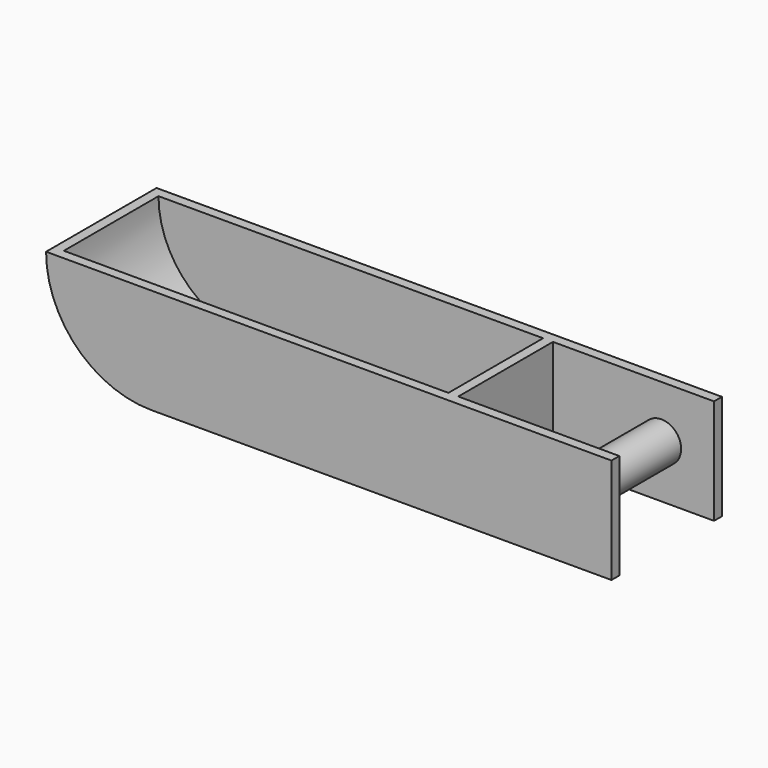
from build123d import *

# Parameters (mm, degrees)
F0_W     = 254
F0_H     = 203.2
F1_DEPTH = 19.05
F2_R     = 38.1
F2_W     = 558.8
F2_H     = 19.05
F3_DEPTH = 228.6
F4_W     = 254
F4_H     = 203.2
F4_W_2   = 57.15
F5_DEPTH = 19.05


with BuildPart() as f1:
    # F0 (on Front) → F1 (new body)
    with BuildSketch(Plane.XZ):
        with BuildLine():
            Line((0, -203.2), (0, 0))
            Line((0, 0), (-431.8, 0))
            ThreePointArc((-431.8, 0), (-491.3159020629, -143.6840979371), (-635, -203.2))
            Line((-635, -203.2), (0, -203.2))
        make_face()
        with BuildLine():
            Line((-635, -203.2), (-635, 0))
            Line((-635, 0), (-838.2, 0))
            ThreePointArc((-838.2, 0), (-778.6840979371, -143.6840979371), (-635, -203.2))
        make_face()
        with BuildLine():
            ThreePointArc((-635, -203.2), (-491.3159020629, -143.6840979371), (-431.8, 0))
            Line((-431.8, 0), (-635, 0))
            Line((-635, 0), (-635, -203.2))
        make_face()
        with Locations((127, -101.6)):
            Rectangle(F0_W, F0_H)
    extrude(amount=F1_DEPTH)

    # F2 (on face) → F3 (join)
    with BuildSketch(Plane.XZ.offset(19.05)):
        with Locations((152.4, -101.6)):
            Circle(F2_R)
        Polygon((-57.15, -203.2), (-57.15, 0), (-76.2, 0), (-76.2, -184.15), (-76.2, -203.2), align=None)
        with Locations((-355.6, -193.675)):
            Rectangle(F2_W, F2_H)
        with BuildLine():
            Line((-635, -203.2), (-635, -184.15))
            ThreePointArc((-635, -184.15), (-765.2137137555, -130.2137137555), (-819.15, 0))
            Line((-819.15, 0), (-838.2, 0))
            ThreePointArc((-838.2, 0), (-778.6840979371, -143.6840979371), (-635, -203.2))
        make_face()
    extrude(amount=F3_DEPTH)

    # F4 (on face) → F5 (join)
    with BuildSketch(Plane.XZ.offset(247.65)):
        with Locations((127, -101.6)):
            Rectangle(F4_W, F4_H)
        with Locations((-28.575, -101.6)):
            Rectangle(F4_W_2, F4_H)
        with BuildLine():
            ThreePointArc((-838.2, 0), (-778.6840979371, -143.6840979371), (-635, -203.2))
            Line((-635, -203.2), (-635, -184.15))
            ThreePointArc((-635, -184.15), (-765.2137137555, -130.2137137555), (-819.15, 0))
            Line((-819.15, 0), (-838.2, 0))
        make_face()
        with BuildLine():
            Line((-635, -184.15), (-635, 0))
            Line((-635, 0), (-819.15, 0))
            ThreePointArc((-819.15, 0), (-765.2137137555, -130.2137137555), (-635, -184.15))
        make_face()
        with BuildLine():
            Line((-76.2, -184.15), (-76.2, 0))
            Line((-76.2, 0), (-431.8, 0))
            ThreePointArc((-431.8, 0), (-463.6153953484, -109.1675651849), (-549.0987922087, -184.15))
            Line((-549.0987922087, -184.15), (-76.2, -184.15))
        make_face()
        with BuildLine():
            Line((-57.15, -203.2), (-57.15, 0))
            Line((-57.15, 0), (-76.2, 0))
            Line((-76.2, 0), (-76.2, -184.15))
            Line((-76.2, -184.15), (-549.0987922087, -184.15))
            ThreePointArc((-549.0987922087, -184.15), (-591.0059094877, -198.380341768), (-635, -203.2))
            Line((-635, -203.2), (-57.15, -203.2))
        make_face()
        with BuildLine():
            Line((-635, -184.15), (-635, -203.2))
            ThreePointArc((-635, -203.2), (-591.0059094877, -198.380341768), (-549.0987922087, -184.15))
            Line((-549.0987922087, -184.15), (-635, -184.15))
        make_face()
        with BuildLine():
            ThreePointArc((-549.0987922087, -184.15), (-463.6153953484, -109.1675651849), (-431.8, 0))
            Line((-431.8, 0), (-635, 0))
            Line((-635, 0), (-635, -184.15))
            Line((-635, -184.15), (-549.0987922087, -184.15))
        make_face()
    extrude(amount=F5_DEPTH)


solid = f1.part
